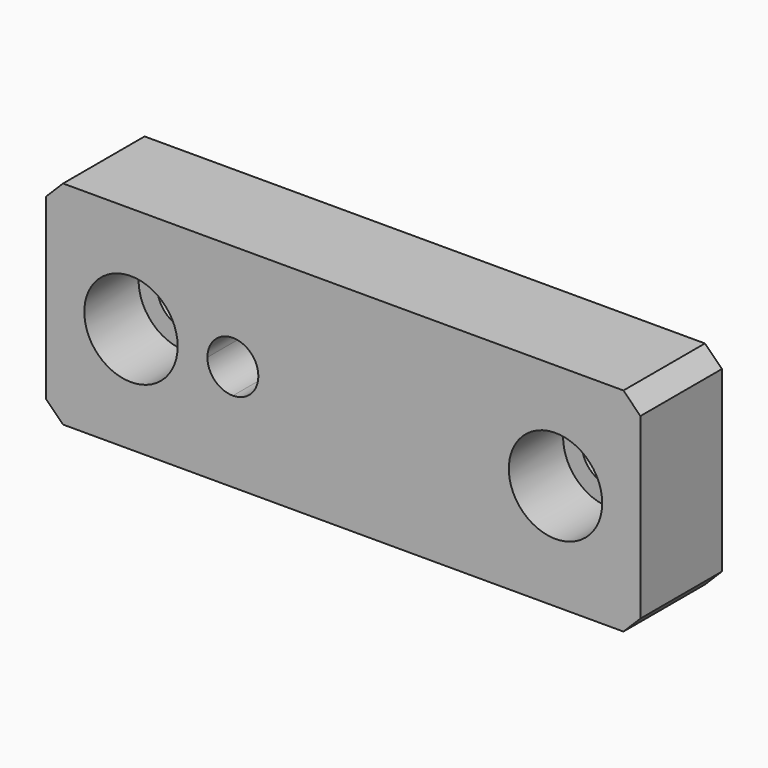
from build123d import *

# Parameters (mm, degrees)
F1_DEPTH       = 12
F2_D           = 6.6
F2_CBORE_D     = 11
F2_CBORE_DEPTH = 8


with BuildPart() as f1:
    # F0 (on Front) → F1 (new body)
    with BuildSketch(Plane.XZ):
        Polygon((-112.128267, -88.28956), (-114.128267, -90.28956), (-114.128267, -111.28956), (-112.128267, -113.28956), (-46.128267, -113.28956), (-44.128267, -111.28956), (-44.128267, -90.28956), (-46.128267, -88.28956), align=None)
        with BuildLine():
            ThreePointArc((-104.128267, -95.28956), (-100.2391797035, -96.9004727035), (-98.628267, -100.78956))
            ThreePointArc((-98.628267, -100.78956), (-100.2391797035, -104.6786472965), (-104.128267, -106.28956))
            ThreePointArc((-104.128267, -106.28956), (-108.0173542965, -104.6786472965), (-109.628267, -100.78956))
            ThreePointArc((-109.628267, -100.78956), (-108.0173542965, -96.9004727035), (-104.128267, -95.28956))
        make_face(mode=Mode.SUBTRACT)
        with BuildLine():
            ThreePointArc((-92.128267, -103.78956), (-94.2495873436, -102.9108803436), (-95.128267, -100.78956))
            ThreePointArc((-95.128267, -100.78956), (-94.2495873436, -98.6682396564), (-92.128267, -97.78956))
            ThreePointArc((-92.128267, -97.78956), (-90.0069466564, -98.6682396564), (-89.128267, -100.78956))
            ThreePointArc((-89.128267, -100.78956), (-90.0069466564, -102.9108803436), (-92.128267, -103.78956))
        make_face(mode=Mode.SUBTRACT)
        with BuildLine():
            ThreePointArc((-54.128267, -95.28956), (-50.2391797035, -96.9004727035), (-48.628267, -100.78956))
            ThreePointArc((-48.628267, -100.78956), (-50.2391797035, -104.6786472965), (-54.128267, -106.28956))
            ThreePointArc((-54.128267, -106.28956), (-58.0173542965, -104.6786472965), (-59.628267, -100.78956))
            ThreePointArc((-59.628267, -100.78956), (-58.0173542965, -96.9004727035), (-54.128267, -95.28956))
        make_face(mode=Mode.SUBTRACT)
        with BuildLine():
            ThreePointArc((-104.128267, -97.48956), (-101.7948146221, -98.4561076221), (-100.828267, -100.78956))
            Line((-100.828267, -100.78956), (-98.628267, -100.78956))
            ThreePointArc((-98.628267, -100.78956), (-100.2391797035, -96.9004727035), (-104.128267, -95.28956))
            Line((-104.128267, -95.28956), (-104.128267, -97.48956))
        make_face()
        with BuildLine():
            ThreePointArc((-107.428267, -100.78956), (-106.4617193779, -98.4561076221), (-104.128267, -97.48956))
            Line((-104.128267, -97.48956), (-104.128267, -95.28956))
            ThreePointArc((-104.128267, -95.28956), (-108.0173542965, -96.9004727035), (-109.628267, -100.78956))
            Line((-109.628267, -100.78956), (-107.428267, -100.78956))
        make_face()
        with BuildLine():
            ThreePointArc((-54.128267, -97.48956), (-51.7948146221, -98.4561076221), (-50.828267, -100.78956))
            Line((-50.828267, -100.78956), (-48.628267, -100.78956))
            ThreePointArc((-48.628267, -100.78956), (-50.2391797035, -96.9004727035), (-54.128267, -95.28956))
            Line((-54.128267, -95.28956), (-54.128267, -97.48956))
        make_face()
        with BuildLine():
            Line((-98.628267, -100.78956), (-100.828267, -100.78956))
            ThreePointArc((-100.828267, -100.78956), (-101.7948146221, -103.1230123779), (-104.128267, -104.08956))
            Line((-104.128267, -104.08956), (-104.128267, -106.28956))
            ThreePointArc((-104.128267, -106.28956), (-100.2391797035, -104.6786472965), (-98.628267, -100.78956))
        make_face()
        with BuildLine():
            ThreePointArc((-57.428267, -100.78956), (-56.4617193779, -98.4561076221), (-54.128267, -97.48956))
            Line((-54.128267, -97.48956), (-54.128267, -95.28956))
            ThreePointArc((-54.128267, -95.28956), (-58.0173542965, -96.9004727035), (-59.628267, -100.78956))
            Line((-59.628267, -100.78956), (-57.428267, -100.78956))
        make_face()
        with BuildLine():
            Line((-104.128267, -106.28956), (-104.128267, -104.08956))
            ThreePointArc((-104.128267, -104.08956), (-106.4617193779, -103.1230123779), (-107.428267, -100.78956))
            Line((-107.428267, -100.78956), (-109.628267, -100.78956))
            ThreePointArc((-109.628267, -100.78956), (-108.0173542965, -104.6786472965), (-104.128267, -106.28956))
        make_face()
        with BuildLine():
            Line((-48.628267, -100.78956), (-50.828267, -100.78956))
            ThreePointArc((-50.828267, -100.78956), (-51.7948146221, -103.1230123779), (-54.128267, -104.08956))
            Line((-54.128267, -104.08956), (-54.128267, -106.28956))
            ThreePointArc((-54.128267, -106.28956), (-50.2391797035, -104.6786472965), (-48.628267, -100.78956))
        make_face()
        with BuildLine():
            Line((-54.128267, -106.28956), (-54.128267, -104.08956))
            ThreePointArc((-54.128267, -104.08956), (-56.4617193779, -103.1230123779), (-57.428267, -100.78956))
            Line((-57.428267, -100.78956), (-59.628267, -100.78956))
            ThreePointArc((-59.628267, -100.78956), (-58.0173542965, -104.6786472965), (-54.128267, -106.28956))
        make_face()
        with BuildLine():
            Line((-57.428267, -100.78956), (-54.128267, -100.78956))
            Line((-54.128267, -100.78956), (-54.128267, -97.48956))
            ThreePointArc((-54.128267, -97.48956), (-56.4617193779, -98.4561076221), (-57.428267, -100.78956))
        make_face()
        with BuildLine():
            Line((-54.128267, -104.08956), (-54.128267, -100.78956))
            Line((-54.128267, -100.78956), (-57.428267, -100.78956))
            ThreePointArc((-57.428267, -100.78956), (-56.4617193779, -103.1230123779), (-54.128267, -104.08956))
        make_face()
        with BuildLine():
            Line((-54.128267, -100.78956), (-50.828267, -100.78956))
            ThreePointArc((-50.828267, -100.78956), (-51.7948146221, -98.4561076221), (-54.128267, -97.48956))
            Line((-54.128267, -97.48956), (-54.128267, -100.78956))
        make_face()
        with BuildLine():
            ThreePointArc((-54.128267, -104.08956), (-51.7948146221, -103.1230123779), (-50.828267, -100.78956))
            Line((-50.828267, -100.78956), (-54.128267, -100.78956))
            Line((-54.128267, -100.78956), (-54.128267, -104.08956))
        make_face()
        with BuildLine():
            Line((-107.428267, -100.78956), (-104.128267, -100.78956))
            Line((-104.128267, -100.78956), (-104.128267, -97.48956))
            ThreePointArc((-104.128267, -97.48956), (-106.4617193779, -98.4561076221), (-107.428267, -100.78956))
        make_face()
        with BuildLine():
            Line((-104.128267, -104.08956), (-104.128267, -100.78956))
            Line((-104.128267, -100.78956), (-107.428267, -100.78956))
            ThreePointArc((-107.428267, -100.78956), (-106.4617193779, -103.1230123779), (-104.128267, -104.08956))
        make_face()
        with BuildLine():
            Line((-104.128267, -100.78956), (-100.828267, -100.78956))
            ThreePointArc((-100.828267, -100.78956), (-101.7948146221, -98.4561076221), (-104.128267, -97.48956))
            Line((-104.128267, -97.48956), (-104.128267, -100.78956))
        make_face()
        with BuildLine():
            ThreePointArc((-104.128267, -104.08956), (-101.7948146221, -103.1230123779), (-100.828267, -100.78956))
            Line((-100.828267, -100.78956), (-104.128267, -100.78956))
            Line((-104.128267, -100.78956), (-104.128267, -104.08956))
        make_face()
    extrude(amount=-F1_DEPTH)

    # F2 (through all)
    with Locations(Plane.XZ):
        with Locations((-54.128267, -100.78956), (-104.128267, -100.78956)):
            CounterBoreHole(F2_D / 2, F2_CBORE_D / 2, F2_CBORE_DEPTH)


solid = f1.part
